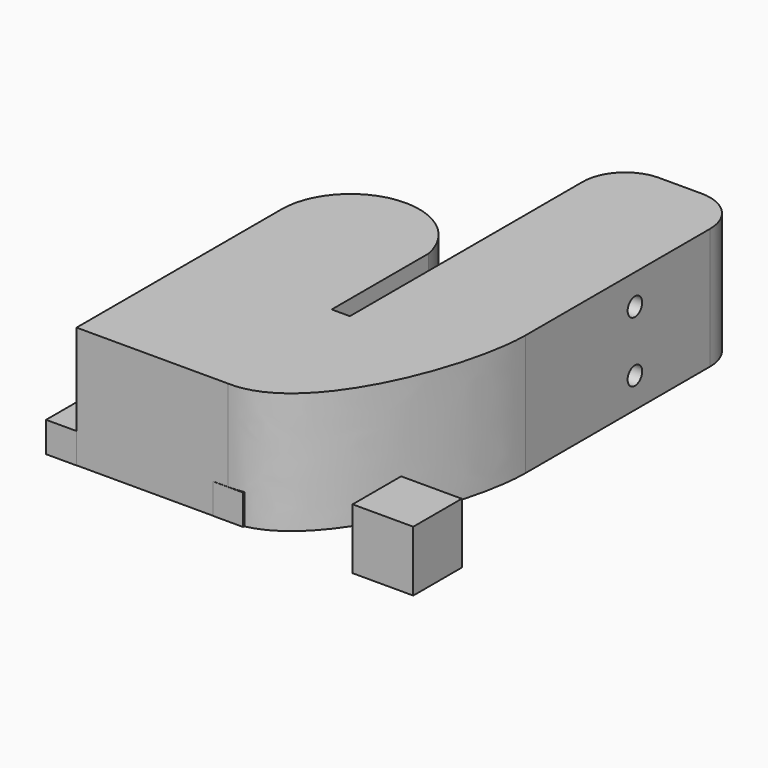
from build123d import *

# Parameters (mm, degrees)
PAD_DEPTH    = 20
SKETCH001_R  = 1.5
POCKET_DEPTH = 21
FILLET_R     = 7
BOX_W        = 10
BOX_H        = 10
BOX_DEPTH    = 10
PAD001_DEPTH = 5


with BuildPart() as shape:
    # Sketch → Pad (new body)
    with BuildSketch(Plane.XY):
        with BuildLine():
            Line((23, 46), (2, 46))
            Line((2, 46), (2, -9))
            Line((2, -9), (-1, -9))
            Line((-1, -9), (-1, 11))
            ThreePointArc((-1, 11), (-13.384329, 20.094963), (-23.5, 8.529361))
            Line((-23.5, 8.529361), (-23.5, -33.470639))
            Line((-23.5, -33.470639), (1.5, -33.470639))
            add(Edge.make_bspline(
                [(1.5, -33.470639), (14.5, -34), (23, -10), (23, 1)],
                knots=[0, 0, 0, 0, 1, 1, 1, 1], degree=3))
            Line((23, 1), (23, 46))
        make_face()
    extrude(amount=PAD_DEPTH)

    # Sketch001 (on Face2 of Pad) → Pocket (cut)
    with BuildSketch(Plane(origin=(2, 0, 0), x_dir=(0, -1, 0), z_dir=(-1, 0, 0))):
        with Locations((-23.5, 15)):
            Circle(SKETCH001_R)
        with Locations((-23.5, 5)):
            Circle(SKETCH001_R)
    extrude(amount=-POCKET_DEPTH, mode=Mode.SUBTRACT)

    # Fillet
    fillet_edges = [shape.edges().sort_by_distance(p)[0] for p in [
        (23, 46, 10),
        (2, 46, 10),
    ]]
    fillet(fillet_edges, radius=FILLET_R)


with BuildPart() as body:
    # Box → Box (join)
    with BuildSketch(Plane.XY):
        with Locations((5, 5)):
            Rectangle(BOX_W, BOX_H)
    extrude(amount=BOX_DEPTH)


with BuildPart() as body_1:
    # Body001 placement: moved
    add(body.part.moved(Location((23.05, -34.75, 0))))


with BuildPart() as cover_shape:
    # Sketch002 → Pad001 (new body)
    with BuildSketch(Plane.XY):
        with BuildLine():
            Line((-23.5, -33.5), (-23.5, 8.5))
            add(Edge.make_bspline(
                [(-23.5, 8.5), (-23, 24), (-1, 24), (-1, 8.5)],
                knots=[0, 0, 0, 0, 1, 1, 1, 1], degree=3))
            Line((-1, 8.5), (-1, -33.5))
            Line((-1, -33.5), (4, -33.5))
            Line((4, -33.5), (4, 8.5))
            ThreePointArc((4, 8.5), (-12.250003, 24.75), (-28.5, 8.499994))
            Line((-28.5, 8.499994), (-28.5, -33.5))
            Line((-28.5, -33.5), (-23.5, -33.5))
        make_face()
    extrude(amount=PAD001_DEPTH)


solid = Compound([shape.part, body_1.part, cover_shape.part])
